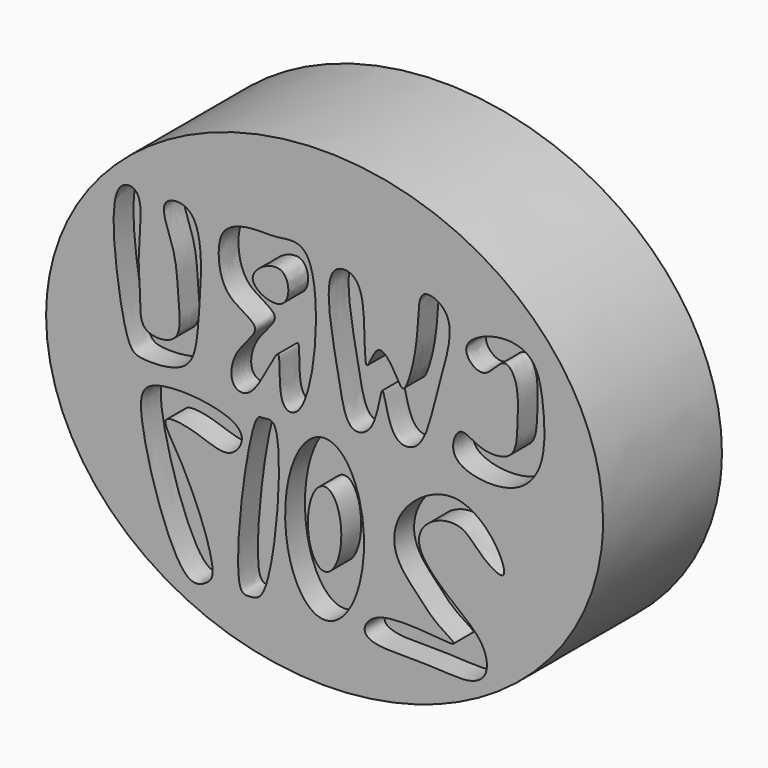
from build123d import *

# Parameters (mm, degrees)
F1_DEPTH = 76.2
F3_DEPTH = 12.7


with BuildPart() as f1:
    # F0 (on Front) → F1 (new body)
    with BuildSketch(Plane.XZ):
        with BuildLine():
            add(Edge.make_bspline(
                [(142.875, 0), (142.875, 208.9719299332), (-71.4375, 104.4859649666), (-285.75, 0), (-71.4375, -104.4859649666), (142.875, -208.9719299332), (142.875, 0)],
                knots=[0, 0, 0, 2.0943951024, 2.0943951024, 4.1887902048, 4.1887902048, 6.2831853072, 6.2831853072, 6.2831853072], degree=2, weights=[1, 0.5, 1, 0.5, 1, 0.5, 1]))
        make_face()
    extrude(amount=F1_DEPTH)

    # F2 (on face) → F3 (cut)
    with BuildSketch(Plane.XZ.offset(76.2)):
        with BuildLine():
            add(Edge.make_bspline(
                [(72.6591944695, 54.7516457736), (72.7404926903, 59.5966305516), (87.5346904725, 67.7108070681), (108.0613948811, 64.4161535401), (112.6484002695, 43.2432680581), (114.0000863036, 14.3636995121), (98.5201024746, -3.141200117), (73.1293868092, -2.0886713892), (63.8332362039, 6.4753181858), (69.1029486378, 20.5395592872), (79.6270495247, 10.8265384194), (98.4212510473, 11.7698702823), (98.8078812261, 29.3217496835), (100.0430081085, 48.0028272121), (91.5368387102, 59.0243770963), (82.2004184264, 41.6534774901), (72.593714835, 50.8493730189), (72.6591944695, 54.7516457736)],
                knots=[0, 0, 0, 0, 0.070864015, 0.1430509507, 0.2169433306, 0.3067209578, 0.3831774356, 0.4643535712, 0.5194153116, 0.571564159, 0.6273303663, 0.6929718696, 0.757865763, 0.8330781777, 0.8817273601, 0.9429243377, 1, 1, 1, 1], degree=3))
        make_face()
        with BuildLine():
            add(Edge.make_bspline(
                [(62.6693814993, 66.961415112), (66.7205670522, 59.3220913815), (57.0087478353, 32.8021279273), (51.6089574163, 0.3957380542), (32.9525546336, -0.204915862), (29.6377539975, 34.4068288011), (27.0000615797, 1.6052014766), (11.1571041866, -3.5489621438), (7.2086658272, 23.154548987), (-3.0302438824, 71.0843334707), (20.0738254658, 71.3759195548), (20.3730432109, 44.7859710465), (20.9511168397, 24.5889370604), (27.4809779721, 46.8732339343), (37.1483295673, 30.5127789291), (41.1494969341, 22.8601209053), (47.7347082358, 46.564811218), (47.7528141788, 63.2790908596), (49.7457525514, 76.0603990839), (60.2299574818, 71.5614388687), (62.6693814993, 66.961415112)],
                knots=[0, 0, 0, 0, 0.0788024993, 0.1540230385, 0.1987064901, 0.2573127198, 0.3150216379, 0.3585624366, 0.4243935768, 0.5139640841, 0.5578393619, 0.6265957594, 0.6720924043, 0.7157979479, 0.7646716264, 0.7945203204, 0.8529459763, 0.9128739334, 0.9525490238, 1, 1, 1, 1], degree=3))
        make_face()
        with BuildLine():
            add(Edge.make_bspline(
                [(-9.1092493385, 70.6613436341), (-1.0172006772, 58.4179341394), (-5.178362605, -4.7205420861), (-25.3543905684, -3.3574257378), (-20.2254869297, 36.5527086401), (-35.1547546056, -4.3021296504), (-49.4412105459, -1.6390556544), (-47.1632031572, 16.7174967177), (-29.2153081962, 30.2404650435), (-50.7367773024, 36.9605354363), (-55.366072812, 54.3274294764), (-53.1420181833, 71.0102211377), (-35.5301552889, 74.3649187806), (-24.5134208236, 72.9969409067), (-12.8560356975, 76.3302961581), (-9.1092493385, 70.6613436341)],
                knots=[0, 0, 0, 0, 0.1526673673, 0.2056115869, 0.2892572145, 0.3802517355, 0.4343346886, 0.506115205, 0.5794288265, 0.6497781456, 0.7258951757, 0.7950968465, 0.8658794218, 0.9293118426, 1, 1, 1, 1], degree=3))
        make_face()
        with BuildLine():
            add(Edge.make_bspline(
                [(-22.428996861, 59.5615543425), (-17.730756592, 57.2788753123), (-16.714688456, 37.5829301294), (-46.8224082674, 50.3672328917), (-27.4244231819, 61.9886236827), (-22.428996861, 59.5615543425)],
                knots=[0, 0, 0, 0, 0.3209262114, 0.6587736788, 1, 1, 1, 1], degree=3))
        make_face(mode=Mode.SUBTRACT)
        with BuildLine():
            add(Edge.make_bspline(
                [(-69.0480992198, 70.6613436341), (-61.4479808108, 63.5215259669), (-64.7246656343, 23.5463996156), (-66.7478343218, -3.4833341533), (-94.227618463, -4.2643493653), (-101.1314294839, -0.5654371678), (-107.259232634, 30.0748646381), (-110.4887506207, 73.3334472666), (-91.6426649353, 73.0767613852), (-96.7716258832, 42.4377443685), (-93.930747863, 24.826222851), (-95.3653175975, 7.462245561), (-72.1864963137, 8.0037949256), (-75.6401356824, 31.0656196397), (-75.5947537561, 50.4319189564), (-87.5872399263, 73.1175129205), (-73.0027572355, 74.3764880107), (-69.0480992198, 70.6613436341)],
                knots=[0, 0, 0, 0, 0.1002154123, 0.1746315134, 0.2431475083, 0.2805620151, 0.3630743487, 0.4560625456, 0.4980089681, 0.5739257964, 0.6408704491, 0.694455876, 0.750341624, 0.8138046502, 0.8833827129, 0.9478537488, 1, 1, 1, 1], degree=3))
        make_face()
        with BuildLine():
            add(Edge.make_bspline(
                [(88.3374810219, -29.6718068421), (83.6189876279, -22.0474478406), (67.0954815171, -7.4324473393), (37.5386330264, -25.8612836591), (33.4554381902, -49.2442246039), (47.2101127608, -63.599813334), (56.7889412889, -74.3379316866), (75.8462354699, -84.149699389), (26.3239703035, -74.1076100339), (15.8564045929, -94.4718044248), (44.0054349825, -93.9809576335), (60.198477235, -94.258933259), (75.257598142, -95.5979354205), (84.5211391767, -89.0920732299), (82.418775095, -74.7289957745), (67.8741599384, -63.4612005917), (52.5888158802, -50.8223711354), (46.2496048931, -38.5165018787), (53.9305261988, -27.2257371579), (71.1453360802, -24.0051210162), (78.8562432903, -35.7780281169), (94.7992641175, -45.3932046422), (91.4881985173, -34.762881321), (88.3374810219, -29.6718068421)],
                knots=[0, 0, 0, 0, 0.0603951162, 0.1235147633, 0.1767630497, 0.2266095214, 0.2745431119, 0.3091043701, 0.3807538566, 0.421824681, 0.4758551937, 0.5265229896, 0.5705550374, 0.6061643136, 0.6466277202, 0.6968140726, 0.7495413687, 0.7900873495, 0.8298820548, 0.8747725305, 0.9191774589, 0.9596718839, 1, 1, 1, 1], degree=3))
        make_face()
        with BuildLine():
            add(Edge.make_bspline(
                [(0, -8.957715705), (-35.0553676389, -8.957715705), (-17.5276838194, -70.5245910212), (0, -132.0914663374), (17.5276838194, -70.5245910212), (35.0553676389, -8.957715705), (0, -8.957715705)],
                knots=[0, 0, 0, 2.0943951024, 2.0943951024, 4.1887902048, 4.1887902048, 6.2831853072, 6.2831853072, 6.2831853072], degree=2, weights=[1, 0.5, 1, 0.5, 1, 0.5, 1]))
        make_face()
        with BuildLine():
            add(Edge.make_bspline(
                [(0, -30.8225881308), (-14.8564373876, -30.8225881308), (-7.4282186938, -59.5921548083), (0, -88.3617214859), (7.4282186938, -59.5921548083), (14.8564373876, -30.8225881308), (0, -30.8225881308)],
                knots=[0, 0, 0, 2.0943951024, 2.0943951024, 4.1887902048, 4.1887902048, 6.2831853072, 6.2831853072, 6.2831853072], degree=2, weights=[1, 0.5, 1, 0.5, 1, 0.5, 1]))
        make_face(mode=Mode.SUBTRACT)
        with BuildLine():
            add(Edge.make_bspline(
                [(-31.3439257443, -88.3617252111), (-24.7649881146, -74.8151960511), (-19.1603605689, -5.2076998206), (-31.5303066131, -10.8004936565), (-38.1878468709, -7.5578463054), (-49.3622483773, -94.3579423357), (-37.8586227702, -92.7870024379), (-33.4996530521, -92.800530453), (-31.3439257443, -88.3617252111)],
                knots=[0, 0, 0, 0, 0.3228298759, 0.4088873667, 0.4802618676, 0.8068274691, 0.8942180002, 1, 1, 1, 1], degree=3))
        make_face()
        with BuildLine():
            add(Edge.make_bspline(
                [(-49.7564524412, -15.4788186774), (-59.3225652006, -11.6747030341), (-91.3113918284, -9.2888388623), (-97.8015600035, -29.0671187456), (-75.4975856818, -101.2950833292), (-60.367499325, -94.3611100628), (-53.9503651043, -87.6796548348), (-71.4260683752, -43.6874409247), (-87.218835191, -23.856282927), (-64.5310552172, -27.4375683069), (-49.0864420878, -35.2720556483), (-39.867152168, -22.9220084237), (-44.6173904618, -17.5224477417), (-49.7564524412, -15.4788186774)],
                knots=[0, 0, 0, 0, 0.1226761404, 0.2060369851, 0.3721936744, 0.4328894805, 0.4859500849, 0.6242155151, 0.7082978163, 0.7867317228, 0.8697247092, 0.9340965025, 1, 1, 1, 1], degree=3))
        make_face()
    extrude(amount=-F3_DEPTH, mode=Mode.SUBTRACT)


solid = f1.part
